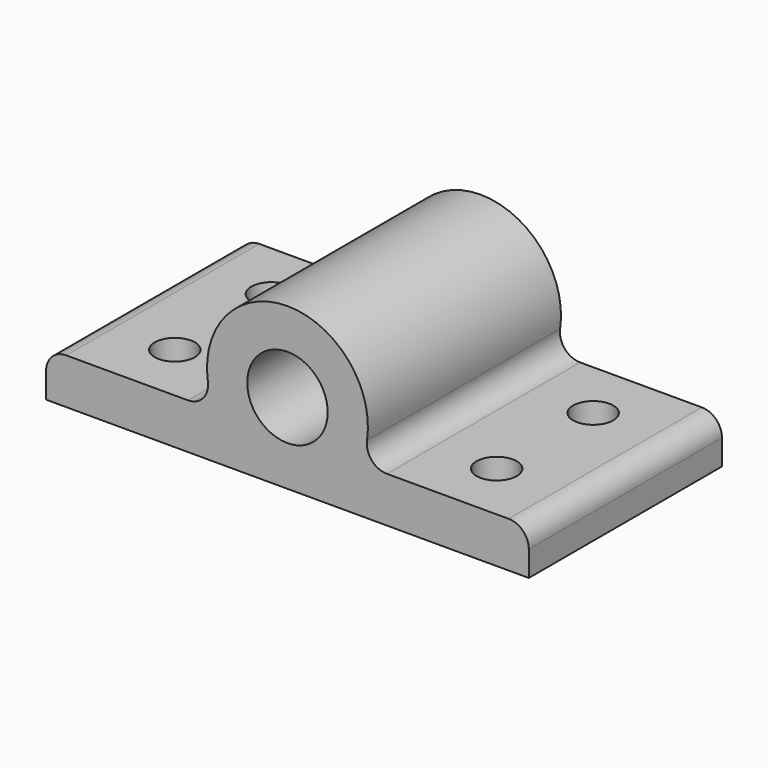
from build123d import *

# Parameters (mm, degrees)
F0_R     = 25.4
F1_DEPTH = 152.4
F3_R     = 12.7
F4_DEPTH = 76.2


with BuildPart() as f1:
    # F0 (on Front) → F1 (new body)
    with BuildSketch(Plane.XZ):
        with BuildLine():
            ThreePointArc((62.8099500262, -22.0359615311), (53.1921711171, -17.6298345019), (50.2479600209, -7.4687692249))
            ThreePointArc((50.2479600209, -7.4687692249), (0, 50.8), (-50.2479600209, -7.4687692249))
            ThreePointArc((-50.2479600209, -7.4687692249), (-53.1921711171, -17.6298345019), (-62.8099500262, -22.0359615311))
            Line((-62.8099500262, -22.0359615311), (-139.7, -22.0359615311))
            ThreePointArc((-139.7, -22.0359615311), (-148.6802561211, -25.75570541), (-152.4, -34.7359615311))
            Line((-152.4, -34.7359615311), (-152.4, -50.8))
            Line((-152.4, -50.8), (152.4, -50.8))
            Line((152.4, -50.8), (152.4, -34.7359615311))
            ThreePointArc((152.4, -34.7359615311), (148.6802561211, -25.75570541), (139.7, -22.0359615311))
            Line((139.7, -22.0359615311), (62.8099500262, -22.0359615311))
        make_face()
        Circle(F0_R, mode=Mode.SUBTRACT)
    extrude(amount=-F1_DEPTH)

    # F3 (on offset) → F4 (cut)
    with BuildSketch(Plane.XY.offset(-22.0359615311)):
        with Locations((101.6, 114.3)):
            Circle(F3_R)
        with Locations((101.6, 38.1)):
            Circle(F3_R)
        with Locations((-101.6, 114.3)):
            Circle(F3_R)
        with Locations((-101.6, 38.1)):
            Circle(F3_R)
    extrude(amount=-F4_DEPTH, mode=Mode.SUBTRACT)


solid = f1.part
